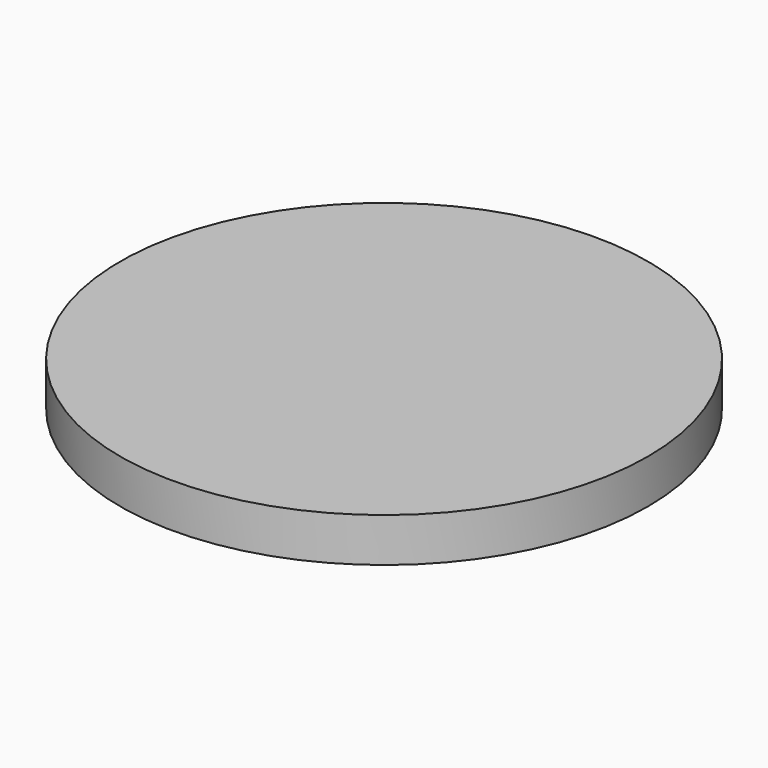
from build123d import *

# Parameters (mm, degrees)
F0_R     = 30
F0_R_2   = 27.5
F2_DEPTH = 5
F1_R     = 30


with BuildPart() as f2:
    # F0 (on Top) → F2 (new body)
    with BuildSketch(Plane.XY):
        Circle(F0_R)
        Circle(F0_R_2, mode=Mode.SUBTRACT)
    extrude(amount=F2_DEPTH)


with BuildPart() as f2b:
    # F1 (on Top) → F2, piece 2 (new body)
    with BuildSketch(Plane.XY):
        Circle(F1_R)
    extrude(amount=F2_DEPTH)


solid = Compound([f2.part, f2b.part])
